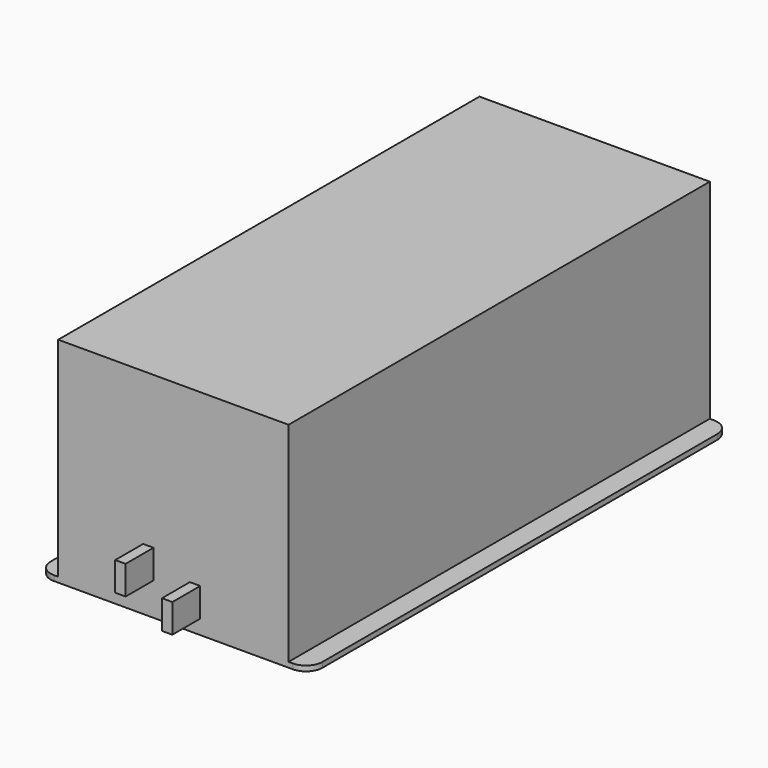
from build123d import *

# Parameters (mm, degrees)
F1_DEPTH = 406.4
F2_R     = 12.7
F3_W     = 8
F3_H     = 22.225
F4_DEPTH = 26.924
F5_W     = 66.04
F5_H     = 33.02
F5_R     = 15.875
F6_DEPTH = 9.525


with BuildPart() as f1:
    # F0 (on Front) → F1 (new body)
    with BuildSketch(Plane.XZ):
        Polygon((-16, 0), (0, 0), (177.8, 0), (193.8, 0), (193.8, 4), (177.8, 4), (177.8, 165.1), (0, 165.1), (0, 4), (-16, 4), align=None)
    extrude(amount=F1_DEPTH)

    # F2
    f2_edges = [f1.edges().sort_by_distance(p)[0] for p in [
        (193.8, 0, 2),
        (193.8, -406.4, 2),
        (-16, -406.4, 2),
        (-16, 0, 2),
    ]]
    fillet(f2_edges, radius=F2_R)

    # F3 (on face) → F4 (join)
    with BuildSketch(Plane.XZ.offset(406.4)):
        with Locations((69.532, 36.5125)):
            Rectangle(F3_W, F3_H)
        with Locations((105.6, 22.2885)):
            Rectangle(F3_W, F3_H)
    extrude(amount=F4_DEPTH)

    # F5 (on face) → F6 (join)
    with BuildSketch(Plane(origin=(0, 0, 0), x_dir=(-1, 0, 0), z_dir=(0, 1, 0))):
        with Locations((-62.865, 44.45)):
            Rectangle(F5_W, F5_H)
        with Locations((-127, 44.45)):
            Circle(F5_R)
    extrude(amount=F6_DEPTH)


solid = f1.part
